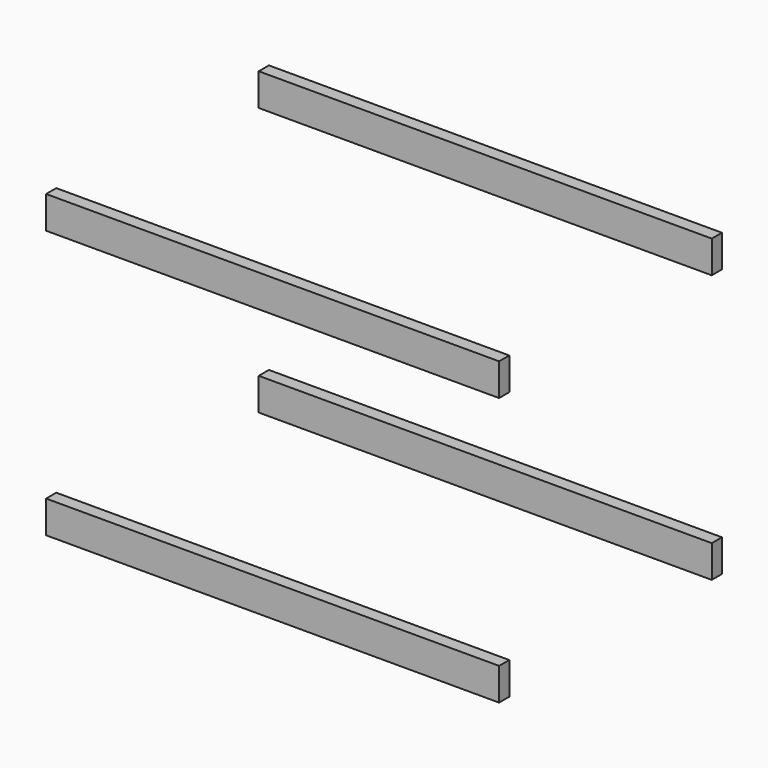
from build123d import *

# Parameters (mm, degrees)
SKETCH001_W      = 27.5
SKETCH001_H      = 70
EXTRUDE001_DEPTH = 980
ARRAY002_Y_COUNT = 2
ARRAY002_Y_PITCH = 575
ARRAY002_Z_COUNT = 2
ARRAY002_Z_PITCH = 580


with BuildPart() as part:
    # Sketch001 (on Face2 of Extrude) → Extrude001 (new body)
    with BuildSketch(Plane.YZ.offset(80)):
        with Locations((13.75, 85)):
            Rectangle(SKETCH001_W, SKETCH001_H)
    extrude(amount=EXTRUDE001_DEPTH)

    # Array002 Y: part ×2


with BuildPart() as part_1:
    add(part.part)
    with Locations(*[(0, i * ARRAY002_Y_PITCH, 0) for i in range(1, ARRAY002_Y_COUNT)]):
        add(part.part)

    # Array002 Z: part ×2


with BuildPart() as part_2:
    add(part_1.part)
    with Locations(*[(0, 0, i * ARRAY002_Z_PITCH) for i in range(1, ARRAY002_Z_COUNT)]):
        add(part_1.part)


solid = part_2.part
